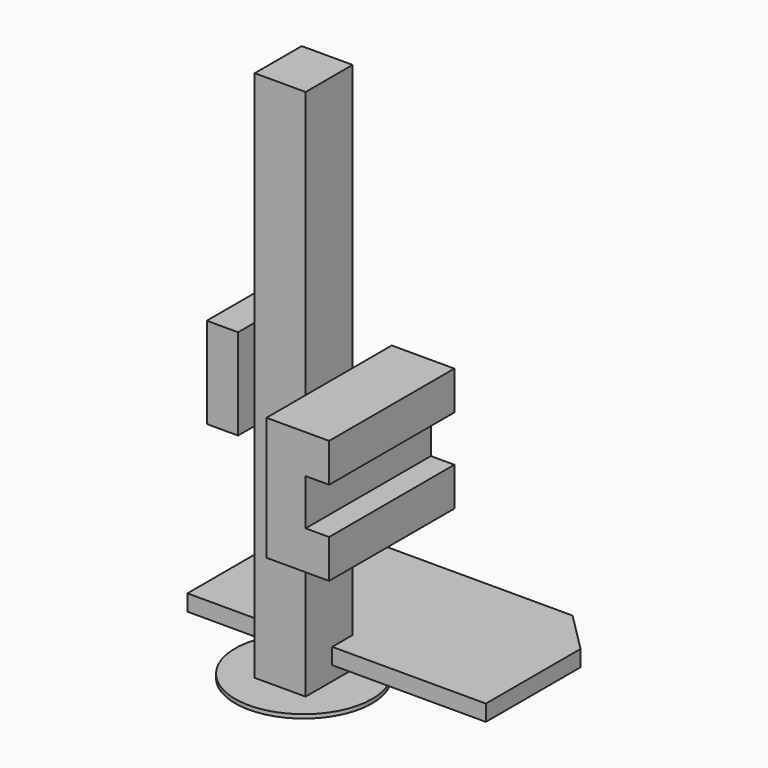
from build123d import *

# Parameters (mm, degrees)
F0_R      = 444.5
F1_DEPTH  = 25.4
F2_W      = 330.2
F2_H      = 381
F3_DEPTH  = 3454.4
F6_DEPTH  = 104.775
F7_W      = 381
F7_H      = 800.1
F7_W_2    = 317.5
F8_DEPTH  = 254
F9_W      = 1016
F9_H      = 250.825
F10_DEPTH = 152.4
F11_W     = 651.1913537979
F11_H     = 590.2225971222
F12_DEPTH = 203.2


with BuildPart() as f1:
    # F0 (on Top) → F1 (new body)
    with BuildSketch(Plane.XY):
        Circle(F0_R)
    extrude(amount=F1_DEPTH)

    # F2 (on face) → F3 (join)
    with BuildSketch(Plane.XY.offset(25.4)):
        Rectangle(F2_W, F2_H)
    extrude(amount=F3_DEPTH)

    # F5 (on offset) → F6 (join)
    with BuildSketch(Plane.XY.offset(117.475)):
        Polygon((-774.7, 25.4), (0, 25.4), (1162.05, 25.4), (1162.05, 793.75), (901.7, 793.75), (901.7, 1054.1), (-514.35, 1054.1), (-514.35, 793.75), (-774.7, 793.75), align=None)
        Polygon((901.7, 793.75), (1162.05, 793.75), (901.7, 1054.1), align=None)
        Polygon((-514.35, 1054.1), (-774.7, 793.75), (-514.35, 793.75), align=None)
    extrude(amount=F6_DEPTH)

    # F7 (on face) → F8 (join)
    with BuildSketch(Plane.YZ.offset(165.1)):
        with Locations((0, 1347.7875)):
            Rectangle(F7_W, F7_H)
        with Locations((-349.25, 1347.7875)):
            Rectangle(F7_W_2, F7_H)
        with Locations((349.25, 1347.7875)):
            Rectangle(F7_W_2, F7_H)
    extrude(amount=F8_DEPTH)

    # F9 (on face) → F10 (join)
    with BuildSketch(Plane.YZ.offset(419.1)):
        with Locations((0, 1622.425)):
            Rectangle(F9_W, F9_H)
        with Locations((0, 1073.15)):
            Rectangle(F9_W, F9_H)
    extrude(amount=F10_DEPTH)

    # F11 (on face) → F12 (join)
    with BuildSketch(Plane(origin=(-165.1, 0, 0), x_dir=(0, -1, 0), z_dir=(-1, 0, 0))):
        with Locations((0, 1759.5391273499)):
            Rectangle(F11_W, F11_H)
    extrude(amount=F12_DEPTH)


solid = f1.part
